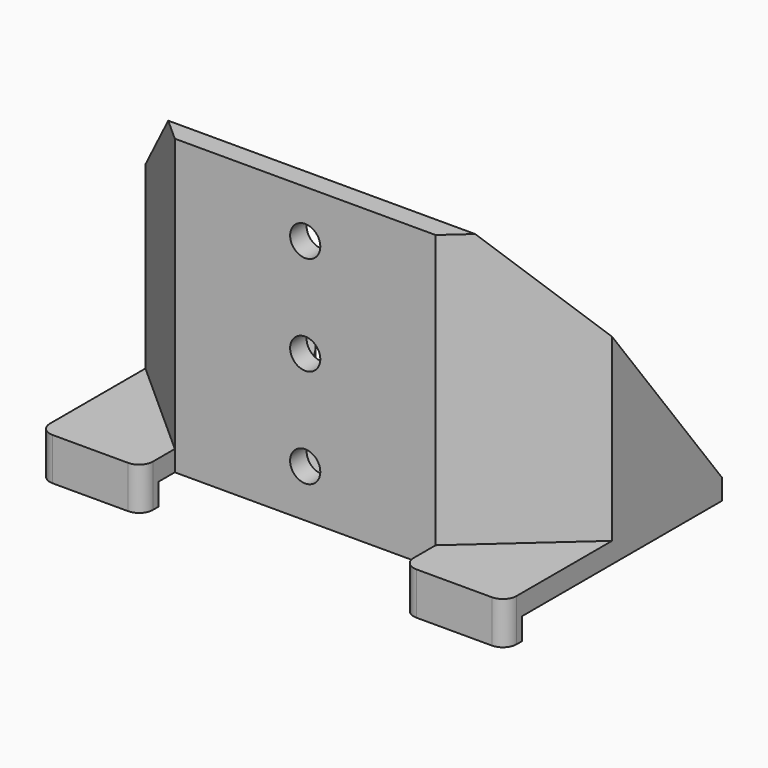
from build123d import *

# Parameters (mm, degrees)
F4_DEPTH       = 21.4
F5_DEPTH       = 1.5
F1_R           = 1.9
F6_DEPTH       = 1.6
F8_DEPTH       = 17.001
F8_DEPTH_BACK  = 17.001
F9_R           = 1.15
F10_DEPTH      = 21.401
F10_DEPTH_BACK = 1.601
F11_R          = 1.1
F12_DEPTH      = 1.5
F15_DEPTH      = 1.5
F14_W          = 7.5
F14_H          = 1.5
F16_DEPTH      = 1.6
F17_R          = 1
F18_R          = 5


with BuildPart() as f4:
    # F3 (on face) → F4 (new body)
    with BuildSketch(Plane.XY):
        Polygon((-15.5, 10), (-17, 10), (-17, 0), (-9.5, -6.7), (0, -6.7), (9.5, -6.7), (17, 0), (17, 10), (15.5, 10), (15.5, 0.6713676939), (8.927573477, -5.2), (0, -5.2), (-8.927573477, -5.2), (-15.5, 0.6713676939), align=None)
    extrude(amount=F4_DEPTH)

    # F2 (on Top) → F5 (join)
    with BuildSketch(Plane.XY):
        Polygon((-17, 0), (-9.5, -6.7), (0, -6.7), (9.5, -6.7), (17, 0), (17, 10), (10, 10), (10, -0.1), (0, -0.1), (-10, -0.1), (-10, 10), (-17, 10), align=None)
    extrude(amount=F5_DEPTH)

    # F1 (on Top) → F6 (join)
    with BuildSketch(Plane.XY):
        with Locations((-13, 2)):
            Circle(F1_R)
        with Locations((13, 2)):
            Circle(F1_R)
    extrude(amount=-F6_DEPTH)

    # F7 (on Right) → F8 (cut, two sides)
    with BuildSketch(Plane.YZ) as f8_sk:
        Polygon((-5.2, 21.4), (10, 1.5), (10, 21.4), align=None)
    extrude(amount=-F8_DEPTH, mode=Mode.SUBTRACT)
    extrude(f8_sk.sketch, amount=F8_DEPTH_BACK, mode=Mode.SUBTRACT)

    # F9 (on Top) → F10 (cut, two sides)
    with BuildSketch(Plane.XY) as f10_sk:
        with Locations((13, 2)):
            Circle(F9_R)
        with Locations((-13, 2)):
            Circle(F9_R)
    extrude(amount=F10_DEPTH, mode=Mode.SUBTRACT)
    extrude(f10_sk.sketch, amount=-F10_DEPTH_BACK, mode=Mode.SUBTRACT)

    # F11 (on face) → F12 (cut, through all)
    with BuildSketch(Plane.XZ.offset(6.7)):
        with Locations((0, 3.475)):
            Circle(F11_R)
        with Locations((0, 17.925)):
            Circle(F11_R)
        with Locations((0, 10.7)):
            Circle(F11_R)
    extrude(amount=-F12_DEPTH, mode=Mode.SUBTRACT)

    # F13 (on Top) → F15 (join)
    with BuildSketch(Plane.XY):
        Polygon((-17, 0), (-17, -9.7), (-9.5, -9.7), (-9.5, -6.7), align=None)
        Polygon((9.5, -9.7), (17, -9.7), (17, 0), (9.5, -6.7), align=None)
    extrude(amount=F15_DEPTH)

    # F14 (on face) → F16 (join)
    with BuildSketch(Plane.XY):
        with Locations((-13.25, -8.95)):
            Rectangle(F14_W, F14_H)
        with Locations((13.25, -8.95)):
            Rectangle(F14_W, F14_H)
    extrude(amount=-F16_DEPTH)

    # F17
    f17_edges = [f4.edges().sort_by_distance(p)[0] for p in [
        (17, -9.7, -0.05),
        (-17, -9.7, -0.05),
        (-9.5, -9.7, -0.05),
        (9.5, -9.7, -0.05),
    ]]
    fillet(f17_edges, radius=F17_R)

    # F18
    f18_edges = [f4.edges().sort_by_distance(p)[0] for p in [
        (10, -0.1, 0.75),
        (10, 10, 0.75),
        (-10, -0.1, 0.75),
        (-10, 10, 0.75),
    ]]
    fillet(f18_edges, radius=F18_R)


solid = f4.part
